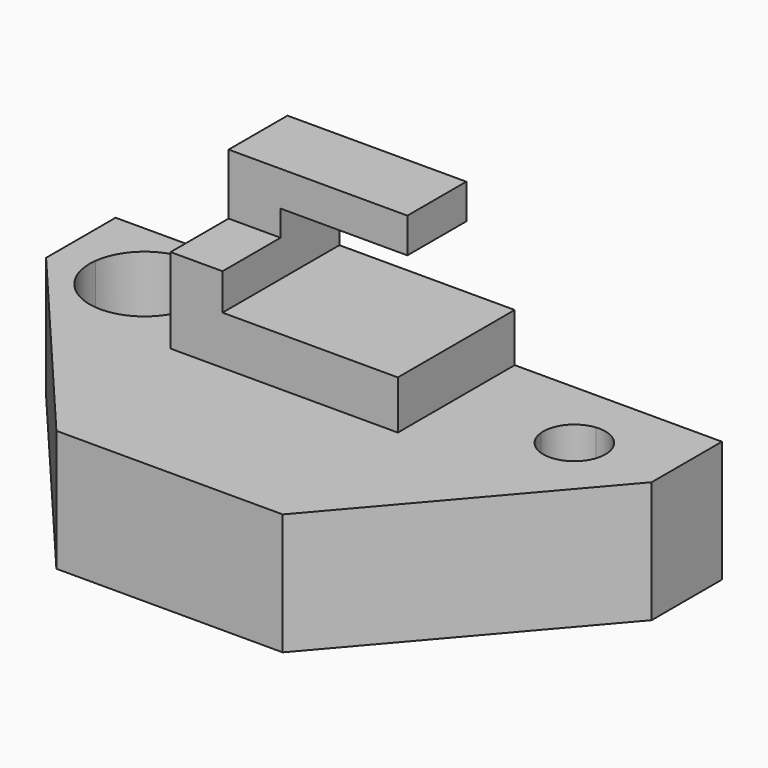
from build123d import *

# Parameters (mm, degrees)
F0_W      = 126.798056066
F0_H      = 64.8966394365
F1_DEPTH  = 25.4
F3_DEPTH  = 25.4
F4_W      = 47.5243106484
F4_H      = 30.5513413623
F5_DEPTH  = 10.16
F6_W      = 47.5243106484
F6_H      = 15.3855457902
F7_DEPTH  = 20.32
F8_W      = 36.6652142256
F8_H      = 13.0012265766
F9_DEPTH  = 25.4
F10_W     = 10.1351421326
F10_H     = 15.3855457902
F11_DEPTH = 15.24
F12_W     = 10.8590964228
F12_H     = 15.1657955721
F13_DEPTH = 7.62
F15_DEPTH = 43.18
F17_DEPTH = 50.8


with BuildPart() as f1:
    # F0 (on Top) → F1 (new body)
    with BuildSketch(Plane.XY):
        with Locations((0.8286423981, -17.062773928)):
            Rectangle(F0_W, F0_H)
    extrude(amount=F1_DEPTH)

    # F2 (on face) → F3 (cut)
    with BuildSketch(Plane.XY.offset(25.4)):
        Polygon((-23.0333544314, -49.5110936463), (-62.5703856349, -2.7855145745), (-62.5703856349, -49.5110936463), align=None)
        Polygon((64.2276704311, -2.9851964209), (24.2912732065, -49.5110936463), (64.2276704311, -49.5110936463), align=None)
    extrude(amount=-F3_DEPTH, mode=Mode.SUBTRACT)

    # F4 (on face) → F5 (join)
    with BuildSketch(Plane.XY.offset(25.4)):
        with Locations((-2.8654746711, 0.109875109)):
            Rectangle(F4_W, F4_H)
    extrude(amount=F5_DEPTH)

    # F6 (on face) → F7 (join)
    with BuildSketch(Plane.XY.offset(35.56)):
        with Locations((-2.8654746711, 7.6927728951)):
            Rectangle(F6_W, F6_H)
    extrude(amount=F7_DEPTH)

    # F8 (on face) → F9 (cut)
    with BuildSketch(Plane.XZ):
        with Locations((2.5640735403, 42.0606132883)):
            Rectangle(F8_W, F8_H)
    extrude(amount=-F9_DEPTH, mode=Mode.SUBTRACT)

    # F10 (on face) → F11 (cut)
    with BuildSketch(Plane.XY.offset(55.88)):
        with Locations((15.8291095868, 7.6927728951)):
            Rectangle(F10_W, F10_H)
    extrude(amount=-F11_DEPTH, mode=Mode.SUBTRACT)

    # F12 (on face) → F13 (join)
    with BuildSketch(Plane.XY.offset(35.56)):
        with Locations((-21.198081784, -7.5828977861)):
            Rectangle(F12_W, F12_H)
    extrude(amount=F13_DEPTH)

    # F14 (on face) → F15 (cut)
    with BuildSketch(Plane.XY.offset(25.4)):
        with BuildLine():
            Line((-55.6119495793, 1.3946691004), (-44.2270040512, 0))
            Line((-44.2270040512, 0), (-42.8323349509, 11.3849455281))
            ThreePointArc((-42.8323349509, 11.3849455281), (-51.2911962592, 9.0365521647), (-55.6119495793, 1.3946691004))
        make_face()
        with BuildLine():
            Line((-44.2270040512, -11.4700517251), (-44.2270040512, 0))
            Line((-44.2270040512, 0), (-55.6119495793, 1.3946691004))
            ThreePointArc((-55.6119495793, 1.3946691004), (-52.8165038416, -7.6014853764), (-44.2270040512, -11.4700517251))
        make_face()
        with BuildLine():
            Line((-32.8420585231, -1.3946691004), (-44.2270040512, 0))
            Line((-44.2270040512, 0), (-44.2270040512, -11.4700517251))
            ThreePointArc((-44.2270040512, -11.4700517251), (-36.6255186748, -8.5894997904), (-32.8420585231, -1.3946691004))
        make_face()
        with BuildLine():
            Line((-42.8323349509, 11.3849455281), (-44.2270040512, 0))
            Line((-44.2270040512, 0), (-32.8420585231, -1.3946691004))
            ThreePointArc((-32.8420585231, -1.3946691004), (-32.7782486457, -0.698631692), (-32.7569523261, 0))
            ThreePointArc((-32.7569523261, 0), (-35.6375042608, 7.6014853764), (-42.8323349509, 11.3849455281))
        make_face()
    extrude(amount=-F15_DEPTH, mode=Mode.SUBTRACT)

    # F16 (on face) → F17 (cut)
    with BuildSketch(Plane.XY.offset(25.4)):
        with BuildLine():
            Line((39.2047164649, -0.6157344434), (45.6754229963, 0))
            Line((45.6754229963, 0), (45.0596885529, 6.4707065314))
            ThreePointArc((45.0596885529, 6.4707065314), (40.6645525286, 4.1400904671), (39.2047164649, -0.6157344434))
        make_face()
        with BuildLine():
            Line((45.0596885529, 6.4707065314), (45.6754229963, 0))
            Line((45.6754229963, 0), (51.6652548153, 2.5241011666))
            ThreePointArc((51.6652548153, 2.5241011666), (49.0092127508, 5.5798761449), (45.0596885529, 6.4707065314))
        make_face()
        with BuildLine():
            Line((51.6652548153, 2.5241011666), (45.6754229963, 0))
            Line((45.6754229963, 0), (46.2911574396, -6.4707065314))
            ThreePointArc((46.2911574396, -6.4707065314), (50.4843421358, -4.3730388324), (52.1753592975, 0))
            ThreePointArc((52.1753592975, 0), (52.0465570083, 1.2875648801), (51.6652548153, 2.5241011666))
        make_face()
        with BuildLine():
            Line((46.2911574396, -6.4707065314), (45.6754229963, 0))
            Line((45.6754229963, 0), (39.2047164649, -0.6157344434))
            ThreePointArc((39.2047164649, -0.6157344434), (41.5353325292, -5.0108704677), (46.2911574396, -6.4707065314))
        make_face()
    extrude(amount=-F17_DEPTH, mode=Mode.SUBTRACT)


solid = f1.part
